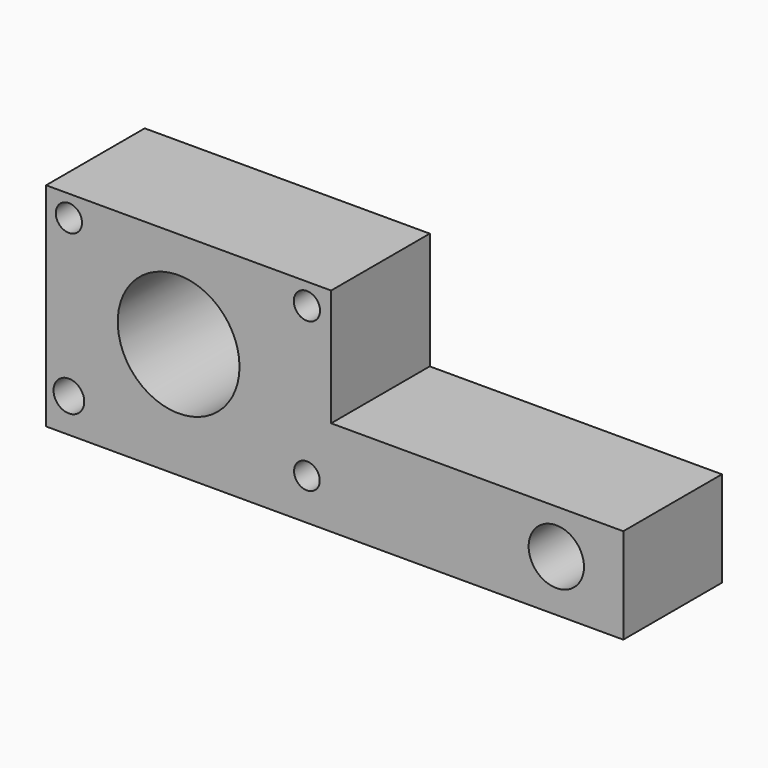
from build123d import *

# Parameters (mm, degrees)
F0_R     = 3.162324
F0_R_2   = 2.642531
F0_R_3   = 5.700968
F0_R_4   = 12.543226
F0_R_5   = 2.706991
F0_R_6   = 2.706994
F1_DEPTH = 25.4


with BuildPart() as f1:
    # F0 (on Front) → F1 (new body)
    with BuildSketch(Plane.XZ):
        Polygon((-8.955249, 56.080405), (-67.678183, 56.080405), (-67.678183, 12.331817), (51.235758, 12.331817), (51.235758, 32.004002), (-8.955249, 32.004002), align=None)
        with Locations((-62.980346, 19.378569)):
            Circle(F0_R, mode=Mode.SUBTRACT)
        with Locations((-13.946697, 20.846643)):
            Circle(F0_R_2, mode=Mode.SUBTRACT)
        with Locations((37.435871, 22.901945)):
            Circle(F0_R_3, mode=Mode.SUBTRACT)
        with Locations((-40.372018, 36.114607)):
            Circle(F0_R_4, mode=Mode.SUBTRACT)
        with Locations((-62.980346, 51.676184)):
            Circle(F0_R_5, mode=Mode.SUBTRACT)
        with Locations((-13.946697, 51.676184)):
            Circle(F0_R_6, mode=Mode.SUBTRACT)
    extrude(amount=F1_DEPTH)


solid = f1.part
